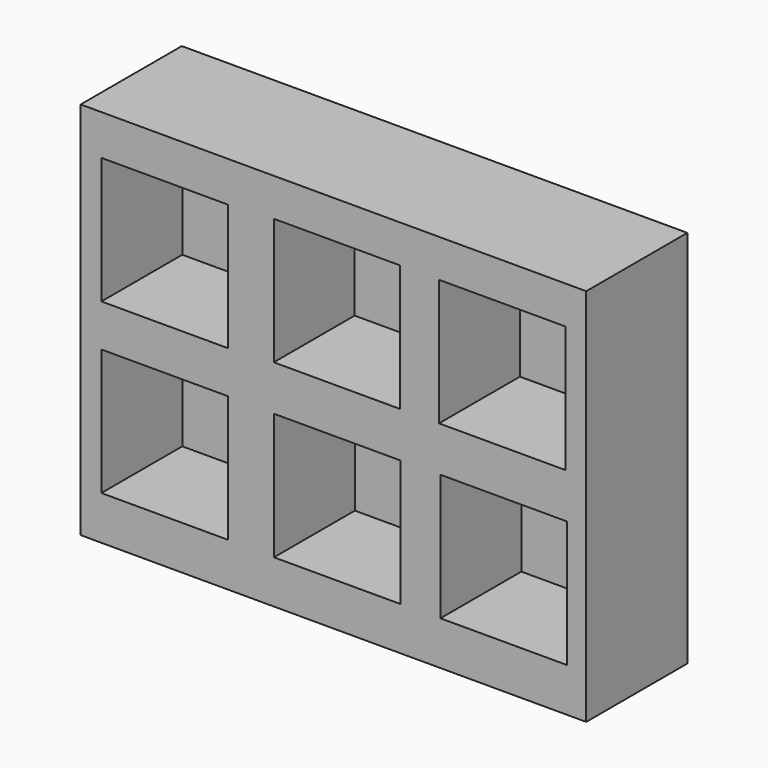
from build123d import *

# Parameters (mm, degrees)
F0_W     = 101.6
F0_H     = 76.2
F0_W_2   = 25.4
F0_H_2   = 25.4
F1_DEPTH = 25.4
F2_DEPTH = 5.08


with BuildPart() as f1:
    # F0 (on Front) → F1 (new body)
    with BuildSketch(Plane.XZ):
        Rectangle(F0_W, F0_H)
        with Locations((-33.936067, -16.593278)):
            Rectangle(F0_W_2, F0_H_2, mode=Mode.SUBTRACT)
        with Locations((0.751751, -16.684257)):
            Rectangle(F0_W_2, F0_H_2, mode=Mode.SUBTRACT)
        with Locations((34.206947, -16.593839)):
            Rectangle(F0_W_2, F0_H_2, mode=Mode.SUBTRACT)
        with Locations((-33.930169, 17.30431)):
            Rectangle(F0_W_2, F0_H_2, mode=Mode.SUBTRACT)
        with Locations((0.707867, 17.80082)):
            Rectangle(F0_W_2, F0_H_2, mode=Mode.SUBTRACT)
        with Locations((33.916031, 17.80082)):
            Rectangle(F0_W_2, F0_H_2, mode=Mode.SUBTRACT)
    extrude(amount=F1_DEPTH)


with BuildPart() as f2:
    # F0 (on Front) → F2 (new body)
    with BuildSketch(Plane.XZ):
        with Locations((-33.930169, 17.30431)):
            Rectangle(F0_W_2, F0_H_2)
        with Locations((0.707867, 17.80082)):
            Rectangle(F0_W_2, F0_H_2)
        with Locations((33.916031, 17.80082)):
            Rectangle(F0_W_2, F0_H_2)
        with Locations((34.206947, -16.593839)):
            Rectangle(F0_W_2, F0_H_2)
        with Locations((0.751751, -16.684257)):
            Rectangle(F0_W_2, F0_H_2)
        with Locations((-33.936067, -16.593278)):
            Rectangle(F0_W_2, F0_H_2)
    extrude(amount=F2_DEPTH)


solid = Compound([f1.part, f2.part])
